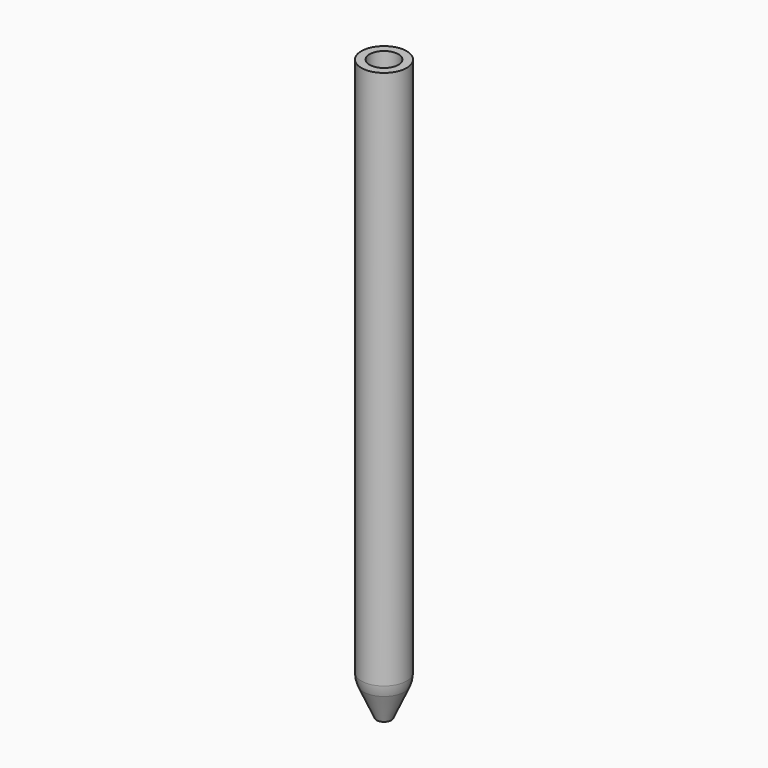
from build123d import *

# Parameters (mm, degrees)
F2_R     = 2.855
F3_DEPTH = 103
F4_R     = 1.275
F5_DEPTH = 25
F6_R     = 0.1
F7_SIZE  = 0.5
F8_R     = 5


with BuildPart() as f1:
    # F0 (on Front) → F1 (revolve)
    with BuildSketch(Plane.XZ):
        Polygon((-4.5, -27.5000141266), (0, -37.5000141266), (0, 80.4999858734), (-4.5, 80.4999858734), (-4.5, 45.166639983), align=None)
    revolve(axis=Axis((0, 0, 21.4999858734), (0, 0, -1)))

    # F2 (on face) → F3 (cut)
    with BuildSketch(Plane.XY.offset(80.4999858734)):
        Circle(F2_R)
    extrude(amount=-F3_DEPTH, mode=Mode.SUBTRACT)

    # F4 (on face) → F5 (cut)
    with BuildSketch(Plane.XY.offset(-22.5000141266)):
        Circle(F4_R)
    extrude(amount=-F5_DEPTH, mode=Mode.SUBTRACT)

    # F6
    f6_edges = [f1.edges().sort_by_distance(p)[0] for p in [
        (0, 1.275, -34.666681),
        (0, -1.275, -34.666681),
    ]]
    fillet(f6_edges, radius=F6_R)

    # F7
    f7_edges = [f1.edges().sort_by_distance(p)[0] for p in [
        (-2.855, 0, -22.500014),
    ]]
    chamfer(f7_edges, length=F7_SIZE)

    # F8
    f8_edges = [f1.edges().sort_by_distance(p)[0] for p in [
        (4.5, 0, -27.500014),
    ]]
    fillet(f8_edges, radius=F8_R)


solid = f1.part
